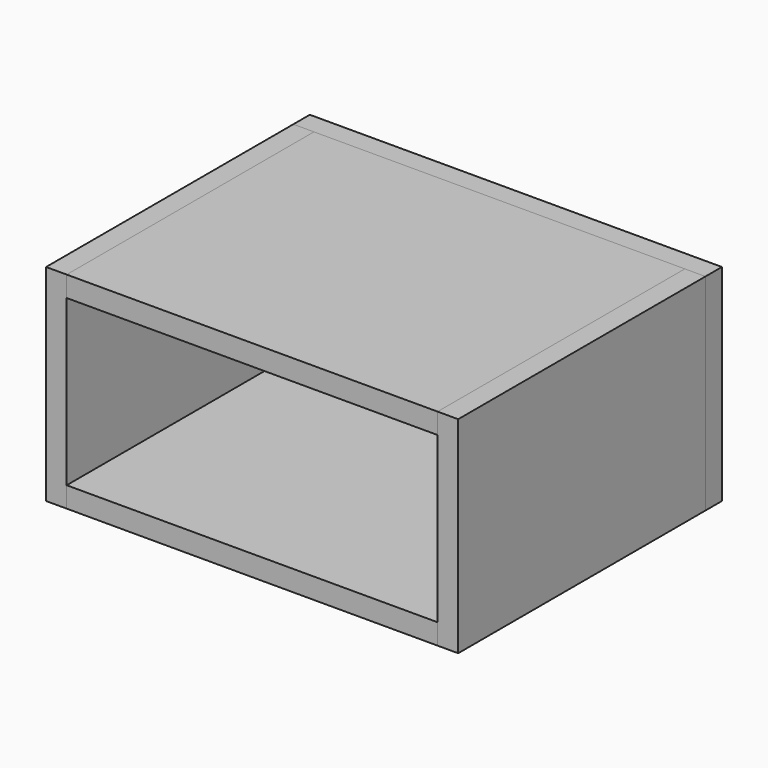
from build123d import *

# Parameters (mm, degrees)
F0_W     = 200
F0_H     = 100
F1_DEPTH = 10
F2_W     = 10
F2_H     = 100
F3_DEPTH = 150
F5_W     = 180
F5_H     = 150
F6_DEPTH = 10


with BuildPart() as f1:
    # F0 (on Front) → F1 (new body)
    with BuildSketch(Plane.XZ):
        Rectangle(F0_W, F0_H)
    extrude(amount=F1_DEPTH)


with BuildPart() as f3:
    # F2 (on face) → F3 (new body)
    with BuildSketch(Plane.XZ.offset(10)):
        with Locations((-95, 0)):
            Rectangle(F2_W, F2_H)
    extrude(amount=F3_DEPTH)


with BuildPart() as f4_1:
    # F4: instance of F3
    add(f3.part.mirror(Plane.YZ))


with BuildPart() as f6:
    # F5 (on face) → F6 (new body)
    with BuildSketch(Plane.XY.offset(50)):
        with Locations((0, -85)):
            Rectangle(F5_W, F5_H)
    extrude(amount=-F6_DEPTH)


with BuildPart() as f7_1:
    # F7: instance of F6
    add(f6.part.mirror(Plane.XY))


solid = Compound([f1.part, f3.part, f4_1.part, f6.part, f7_1.part])
